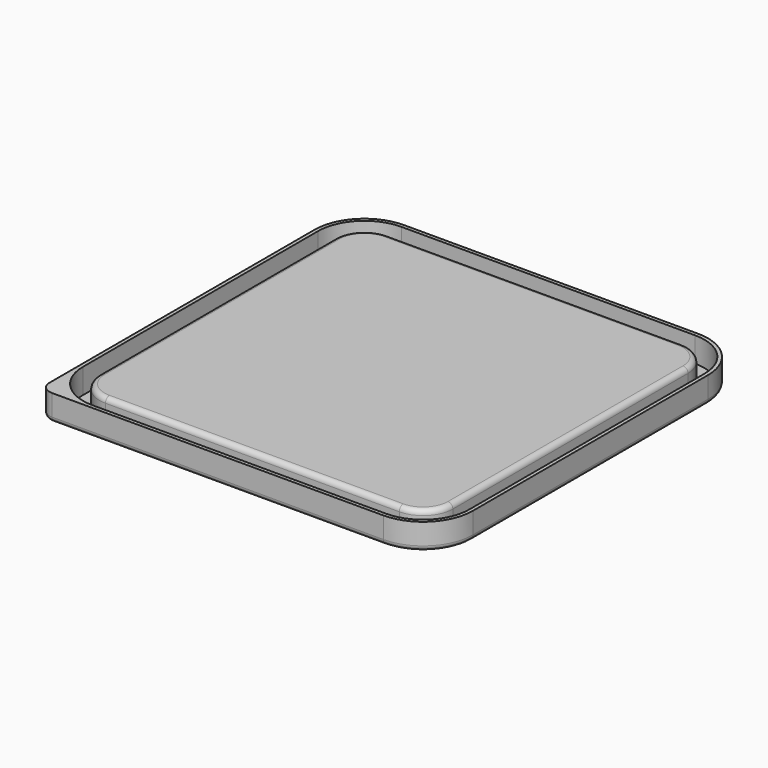
from build123d import *

# Parameters (mm, degrees)
F1_DEPTH = 10.5
F3_DEPTH = 10
F5_DEPTH = 9
F6_R     = 2


with BuildPart() as f1:
    # F0 (on Top) → F1 (new body)
    with BuildSketch(Plane.XY):
        with BuildLine():
            Line((-74, -79), (59, -79))
            ThreePointArc((59, -79), (73.1421356237, -73.1421356237), (79, -59))
            Line((79, -59), (79, 59))
            ThreePointArc((79, 59), (73.1421356237, 73.1421356237), (59, 79))
            Line((59, 79), (-59, 79))
            ThreePointArc((-59, 79), (-73.1421356237, 73.1421356237), (-79, 59))
            Line((-79, 59), (-79, -74))
            ThreePointArc((-79, -74), (-77.5355339059, -77.5355339059), (-74, -79))
        make_face()
    extrude(amount=F1_DEPTH)

    # F2 (on face) → F3 (cut)
    with BuildSketch(Plane.XY.offset(10.5)):
        with BuildLine():
            Line((77.5522068143, -59), (77.5522068143, 59))
            ThreePointArc((77.5522068143, 59), (72.1183912444, 72.1183912444), (59, 77.5522068143))
            Line((59, 77.5522068143), (-59, 77.5522068143))
            ThreePointArc((-59, 77.5522068143), (-72.1183912444, 72.1183912444), (-77.5522068143, 59))
            Line((-77.5522068143, 59), (-77.5522068143, -59.0002068143))
            ThreePointArc((-77.5522068143, -59.0002068143), (-72.1184518189, -72.1184518189), (-59.0002068143, -77.5522068143))
            Line((-59.0002068143, -77.5522068143), (59, -77.5522068143))
            ThreePointArc((59, -77.5522068143), (72.1183912444, -72.1183912444), (77.5522068143, -59))
        make_face()
        with BuildLine():
            ThreePointArc((59, 70.9469467402), (67.4477670544, 67.4477670544), (70.9469467402, 59))
            Line((70.9469467402, 59), (70.9469467402, -59))
            ThreePointArc((70.9469467402, -59), (67.4477670544, -67.4477670544), (59, -70.9469467402))
            Line((59, -70.9469467402), (-58.9999467402, -70.9469467402))
            ThreePointArc((-58.9999467402, -70.9469467402), (-67.447751455, -67.447751455), (-70.9469467402, -58.9999467402))
            Line((-70.9469467402, -58.9999467402), (-70.9469467402, 59))
            ThreePointArc((-70.9469467402, 59), (-67.4477670544, 67.4477670544), (-59, 70.9469467402))
            Line((-59, 70.9469467402), (59, 70.9469467402))
        make_face(mode=Mode.SUBTRACT)
    extrude(amount=-F3_DEPTH, mode=Mode.SUBTRACT)

    # F4 (on face) → F5 (cut)
    with BuildSketch(Plane(origin=(0, 0, 0), x_dir=(1, 0, 0), z_dir=(0, 0, -1))):
        with BuildLine():
            ThreePointArc((59, -69.9469467402), (66.7406602732, -66.7406602732), (69.9469467402, -59))
            Line((69.9469467402, -59), (69.9469467402, 59))
            ThreePointArc((69.9469467402, 59), (66.7406602732, 66.7406602732), (59, 69.9469467402))
            Line((59, 69.9469467402), (-58.9999467402, 69.9469467402))
            ThreePointArc((-58.9999467402, 69.9469467402), (-66.7406446738, 66.7406446738), (-69.9469467402, 58.9999467402))
            Line((-69.9469467402, 58.9999467402), (-69.9469467402, -59))
            ThreePointArc((-69.9469467402, -59), (-66.7406602732, -66.7406602732), (-59, -69.9469467402))
            Line((-59, -69.9469467402), (59, -69.9469467402))
        make_face()
    extrude(amount=-F5_DEPTH, mode=Mode.SUBTRACT)

    # F6
    f6_edges = [f1.edges().sort_by_distance(p)[0] for p in [
        (-7.5, -79, 0),
        (-77.535534, -77.535534, 0),
        (73.142136, -73.142136, 0),
        (-79, -7.5, 0),
        (79, 0, 0),
        (-73.142136, 73.142136, 0),
        (73.142136, 73.142136, 0),
        (0, 79, 0),
        (-69.946947, 2.7e-05, 0),
        (-66.740645, -66.740645, 0),
        (2.7e-05, -69.946947, 0),
        (66.74066, -66.74066, 0),
        (69.946947, 0, 0),
        (66.74066, 66.74066, 0),
        (0, 69.946947, 0),
        (-66.74066, 66.74066, 0),
        (-67.447767, 67.447767, 10.5),
        (0, 70.946947, 10.5),
        (67.447767, 67.447767, 10.5),
        (70.946947, 0, 10.5),
        (67.447767, -67.447767, 10.5),
        (2.7e-05, -70.946947, 10.5),
        (-67.447751, -67.447751, 10.5),
        (-70.946947, 2.7e-05, 10.5),
    ]]
    fillet(f6_edges, radius=F6_R)


solid = f1.part
